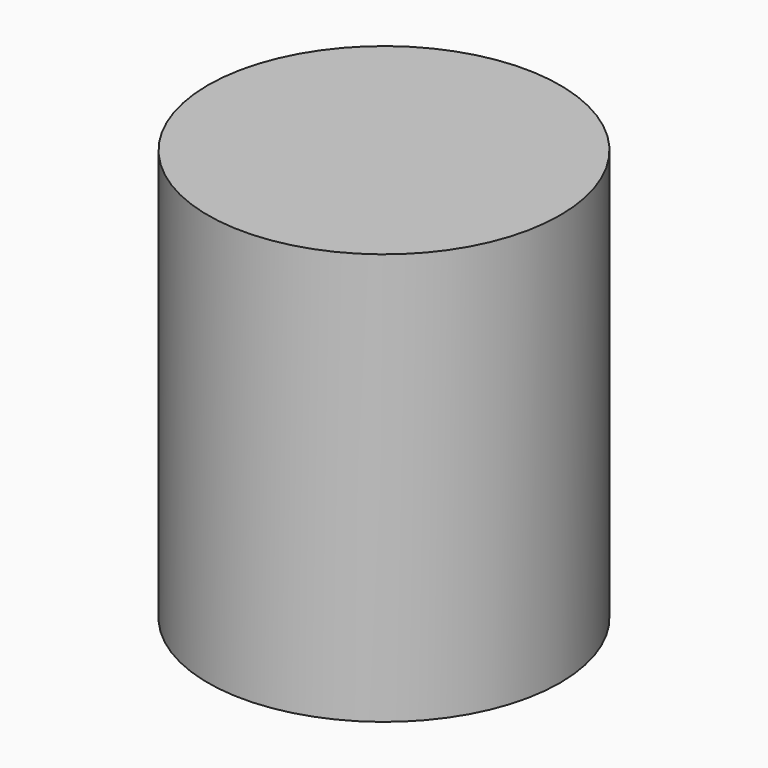
from build123d import *

# Parameters (mm, degrees)
F0_R     = 66.262049
F1_DEPTH = 154.875293


with BuildPart() as f1:
    # F0 (on Top) → F1 (new body)
    with BuildSketch(Plane.XY):
        with Locations((0, 8.298293)):
            Circle(F0_R)
    extrude(amount=-F1_DEPTH)


solid = f1.part
